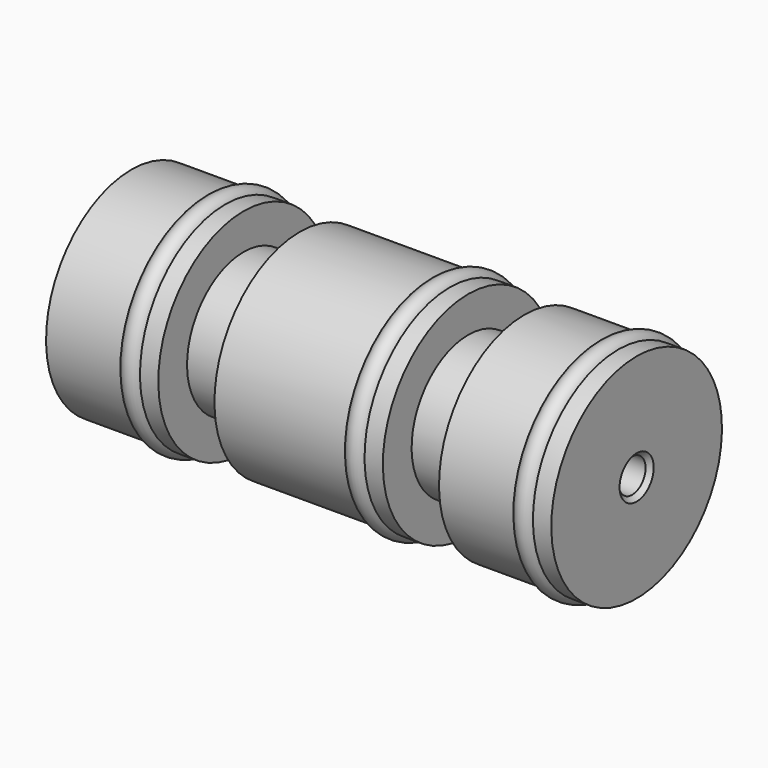
from build123d import *

# Parameters (mm, degrees)
F3_SIZE = 0.4


with BuildPart() as f2:
    # F1 (on Front) → F2 (revolve)
    with BuildSketch(Plane.XZ):
        with BuildLine():
            Line((0, 9.5), (0, 1.5))
            Line((0, 1.5), (45, 1.5))
            Line((45, 1.5), (45, 9.5))
            Line((45, 9.5), (43.3660254038, 9.5))
            ThreePointArc((43.3660254038, 9.5), (43.4659258263, 9.2588190451), (43.5, 9))
            ThreePointArc((43.5, 9), (42.2411809549, 8.0340741737), (41.6339745962, 9.5))
            Line((41.6339745962, 9.5), (35, 9.5))
            Line((35, 9.5), (35, 6.3))
            Line((35, 6.3), (30, 6.3))
            Line((30, 6.3), (30, 9.5))
            Line((30, 9.5), (28.3660254038, 9.5))
            ThreePointArc((28.3660254038, 9.5), (28.4659258263, 9.2588190451), (28.5, 9))
            ThreePointArc((28.5, 9), (27.2411809549, 8.0340741737), (26.6339745962, 9.5))
            Line((26.6339745962, 9.5), (15, 9.5))
            Line((15, 9.5), (15, 6.3))
            Line((15, 6.3), (10, 6.3))
            Line((10, 6.3), (10, 9.5))
            Line((10, 9.5), (8.3660254038, 9.5))
            ThreePointArc((8.3660254038, 9.5), (8.4659258263, 9.2588190451), (8.5, 9))
            ThreePointArc((8.5, 9), (7.2411809549, 8.0340741737), (6.6339745962, 9.5))
            Line((6.6339745962, 9.5), (0, 9.5))
        make_face()
        with BuildLine():
            ThreePointArc((8.3660254038, 9.5), (7.5, 10), (6.6339745962, 9.5))
            Line((6.6339745962, 9.5), (8.3660254038, 9.5))
        make_face()
        with BuildLine():
            Line((8.3660254038, 9.5), (6.6339745962, 9.5))
            ThreePointArc((6.6339745962, 9.5), (7.2411809549, 8.0340741737), (8.5, 9))
            ThreePointArc((8.5, 9), (8.4659258263, 9.2588190451), (8.3660254038, 9.5))
        make_face()
        with BuildLine():
            ThreePointArc((43.5, 9), (43.4659258263, 9.2588190451), (43.3660254038, 9.5))
            Line((43.3660254038, 9.5), (41.6339745962, 9.5))
            ThreePointArc((41.6339745962, 9.5), (42.2411809549, 8.0340741737), (43.5, 9))
        make_face()
        with BuildLine():
            Line((41.6339745962, 9.5), (43.3660254038, 9.5))
            ThreePointArc((43.3660254038, 9.5), (42.5, 10), (41.6339745962, 9.5))
        make_face()
        with BuildLine():
            ThreePointArc((28.3660254038, 9.5), (27.5, 10), (26.6339745962, 9.5))
            Line((26.6339745962, 9.5), (28.3660254038, 9.5))
        make_face()
        with BuildLine():
            Line((28.3660254038, 9.5), (26.6339745962, 9.5))
            ThreePointArc((26.6339745962, 9.5), (27.2411809549, 8.0340741737), (28.5, 9))
            ThreePointArc((28.5, 9), (28.4659258263, 9.2588190451), (28.3660254038, 9.5))
        make_face()
    revolve(axis=Axis((22.5, 0, 0), (1, 0, 0)))

    # F3
    f3_edges = [f2.edges().sort_by_distance(p)[0] for p in [
        (0, 0, -1.5),
        (45, 0, -1.5),
    ]]
    chamfer(f3_edges, length=F3_SIZE)


solid = f2.part
